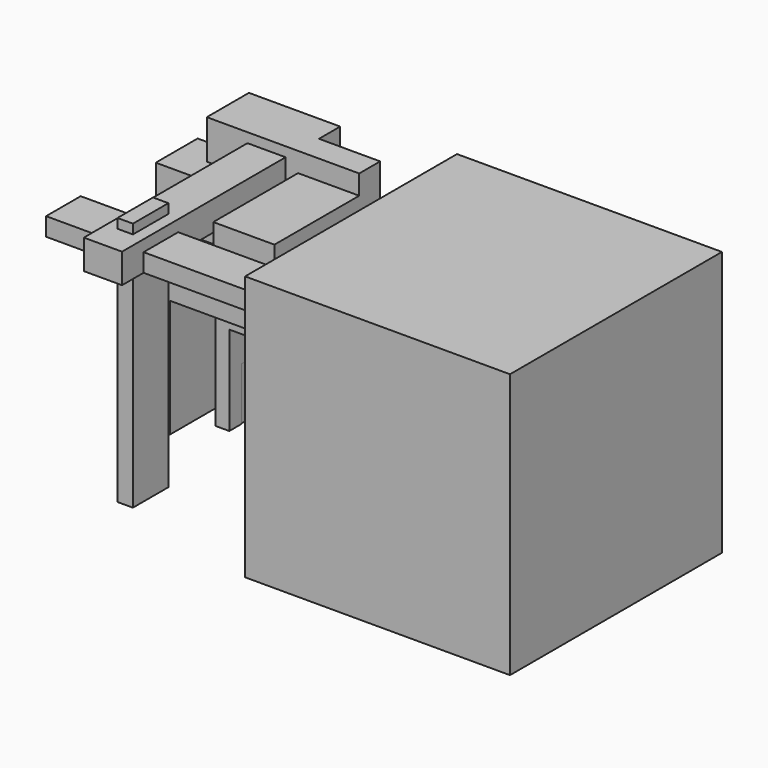
from build123d import *

# Parameters (mm, degrees)
F0_W      = 63.5
F0_H      = 63.5
F1_DEPTH  = 63.5
F2_W      = 12.7
F2_H      = 12.7
F3_DEPTH  = 12.7
F4_W      = 6.35
F4_H      = 6.35
F5_DEPTH  = 12.7
F6_W      = 12.7
F6_H      = 12.7
F7_DEPTH  = 12.7
F8_W      = 6.3622790834
F8_H      = 5.0781101454
F9_DEPTH  = 12.7
F11_DEPTH = 12.7
F12_W     = 6.1163902283
F12_H     = 21.417343989
F13_DEPTH = 6.35
F14_W     = 2.5899494067
F14_H     = 12.7
F15_DEPTH = 6.35
F16_W     = 14.4312972566
F16_H     = 12.5468349248
F17_DEPTH = 12.7
F18_W     = 36.5332050999
F18_H     = 12.6234174624
F19_DEPTH = 9.398
F20_W     = 14.6587782358
F20_H     = 4.699
F21_DEPTH = 25.4
F22_W     = 14.6587782358
F22_H     = 38.0234174624
F23_DEPTH = 6.35
F24_W     = 14.6587782358
F24_H     = 15.748
F25_DEPTH = 6.35
F26_W     = 6.5230224282
F26_H     = 14.0668489039
F27_DEPTH = 44.45
F28_W     = 14.0668489039
F28_H     = 5.2612107247
F29_DEPTH = 35.56
F30_W     = 3.1590871513
F30_H     = 14.0668489039
F31_DEPTH = 28.194
F32_W     = 9.145732969
F32_H     = 7.0805729747
F33_DEPTH = 49.022
F34_W     = 10.367654264
F34_H     = 4.3525428891
F35_DEPTH = 28.448
F36_DEPTH = 23.368
F37_W     = 3.690186888
F37_H     = 10.6312707067
F38_DEPTH = 2.286
F39_DEPTH = 57.658
F40_W     = 5.0781101454
F40_H     = 1.1522667482
F41_DEPTH = 6.35


with BuildPart() as f1:
    # F0 (on Front) → F1 (new body)
    with BuildSketch(Plane.XZ):
        with Locations((31.75, 31.75)):
            Rectangle(F0_W, F0_H)
    extrude(amount=F1_DEPTH)


with BuildPart() as f3:
    # F2 (on Front) → F3 (new body)
    with BuildSketch(Plane.XZ):
        with Locations((-42.6612650613, 6.35)):
            Rectangle(F2_W, F2_H)
    extrude(amount=F3_DEPTH)

    # F4 (on face) → F5 (join)
    with BuildSketch(Plane.XY.offset(12.7)):
        with Locations((-39.4862650613, -9.525)):
            Rectangle(F4_W, F4_H)
        Polygon((-29.9612650613, -6.35), (-36.3112650613, -6.35), (-36.3112650613, -12.7), (-42.6612650613, -12.7), (-42.6612650613, -19.05), (-29.9612650613, -19.05), align=None)
    extrude(amount=F5_DEPTH)

    # F6 (on face) → F7 (join)
    with BuildSketch(Plane.XY.offset(25.4)):
        with Locations((-42.6612650613, -6.35)):
            Rectangle(F6_W, F6_H)
    extrude(amount=F7_DEPTH)

    # F8 (on face) → F9 (join)
    with BuildSketch(Plane.XY.offset(12.7)):
        with Locations((-49.0174046029, -5.9054897865)):
            Rectangle(F8_W, F8_H)
    extrude(amount=F9_DEPTH)

    # F10 (on face) → F11 (join)
    with BuildSketch(Plane(origin=(0, 0, 12.7), x_dir=(1, 0, 0), z_dir=(0, 0, -1))):
        Polygon((-42.6612650613, 12.7), (-39.4862650613, 12.7), (-39.4862650613, 15.3430420905), (-33.1362650613, 15.3430420905), (-33.1362650613, 6.35), (-29.9612650613, 6.35), (-29.9612650613, 19.05), (-42.6612650613, 19.05), align=None)
    extrude(amount=F11_DEPTH)

    # F12 (on face) → F13 (cut)
    with BuildSketch(Plane.XZ.offset(19.05)):
        with Locations((-36.2820141017, 10.7086719945)):
            Rectangle(F12_W, F12_H)
    extrude(amount=-F13_DEPTH, mode=Mode.SUBTRACT)

    # F14 (on face) → F15 (cut)
    with BuildSketch(Plane(origin=(-33.1362650613, 0, 0), x_dir=(0, -1, 0), z_dir=(-1, 0, 0))):
        with Locations((14.0480673872, 6.35)):
            Rectangle(F14_W, F14_H)
    extrude(amount=-F15_DEPTH, mode=Mode.SUBTRACT)

    # F16 (on face) → F17 (join)
    with BuildSketch(Plane.XY.offset(38.1)):
        with Locations((-49.8769136895, -12.6234174624)):
            Rectangle(F16_W, F16_H)
    extrude(amount=F17_DEPTH)

    # F18 (on face) → F19 (join)
    with BuildSketch(Plane.XY.offset(50.8)):
        with Locations((-31.6103111396, -6.3117087312)):
            Rectangle(F18_W, F18_H)
    extrude(amount=F19_DEPTH)

    # F20 (on face) → F21 (join)
    with BuildSketch(Plane.XZ.offset(12.6234174624)):
        with Locations((-20.6730977076, 53.1495)):
            Rectangle(F20_W, F20_H)
    extrude(amount=F21_DEPTH)

    # F22 (on face) → F23 (join)
    with BuildSketch(Plane(origin=(0, 0, 50.8), x_dir=(1, 0, 0), z_dir=(0, 0, -1))):
        with Locations((-20.6730977076, 19.0117087312)):
            Rectangle(F22_W, F22_H)
    extrude(amount=F23_DEPTH)

    # F24 (on face) → F25 (cut)
    with BuildSketch(Plane(origin=(0, 0, 0), x_dir=(-1, 0, 0), z_dir=(0, 1, 0))):
        with Locations((20.6730977076, 52.324)):
            Rectangle(F24_W, F24_H)
    extrude(amount=-F25_DEPTH, mode=Mode.SUBTRACT)

    # F26 (on face) → F27 (join)
    with BuildSketch(Plane(origin=(0, 0, 44.45), x_dir=(1, 0, 0), z_dir=(0, 0, -1))):
        with Locations((-19.9186382815, 20.6244029105)):
            Rectangle(F26_W, F26_H)
    extrude(amount=F27_DEPTH)

    # F28 (on face) → F29 (join)
    with BuildSketch(Plane(origin=(-23.1801494956, 0, 0), x_dir=(0, -1, 0), z_dir=(-1, 0, 0))):
        with Locations((20.6244029105, 31.2403859571)):
            Rectangle(F28_W, F28_H)
    extrude(amount=F29_DEPTH)

    # F30 (on face) → F31 (join)
    with BuildSketch(Plane(origin=(0, 0, 28.6097805947), x_dir=(1, 0, 0), z_dir=(0, 0, -1))):
        with Locations((-48.2048373669, 20.6244029105)):
            Rectangle(F30_W, F30_H)
    extrude(amount=F31_DEPTH)

    # F32 (on face) → F33 (join)
    with BuildSketch(Plane.XZ.offset(12.6234174624)):
        with Locations((-35.5574879795, 54.3402864873)):
            Rectangle(F32_W, F32_H)
    extrude(amount=F33_DEPTH)

    # F34 (on face) → F35 (join)
    with BuildSketch(Plane.YZ.offset(-30.984621495)):
        with Locations((-49.9979630113, 52.9762714446)):
            Rectangle(F34_W, F34_H)
    extrude(amount=F35_DEPTH)

    # F34 (on face) → F36 (join)
    with BuildSketch(Plane.YZ.offset(-30.984621495)):
        with Locations((-49.9979630113, 52.9762714446)):
            Rectangle(F34_W, F34_H)
    extrude(amount=-F36_DEPTH)

    # F37 (on face) → F38 (join)
    with BuildSketch(Plane.XY.offset(57.8805729747)):
        with Locations((-35.597005859, -49.603946507)):
            Rectangle(F37_W, F37_H)
    extrude(amount=F38_DEPTH)

    # F37 (on face) → F39 (join)
    with BuildSketch(Plane.XY.offset(57.8805729747)):
        with Locations((-35.597005859, -49.603946507)):
            Rectangle(F37_W, F37_H)
    extrude(amount=-F39_DEPTH)

    # F40 (on face) → F41 (join)
    with BuildSketch(Plane(origin=(-49.0112650613, 0, 0), x_dir=(0, -1, 0), z_dir=(-1, 0, 0))):
        Polygon((1.809271751, 35.9843969345), (1.809271751, 27.5411326438), (3.3664347138, 27.5411326438), (3.3664347138, 31.1024514958), (3.3664347138, 32.2547182441), (3.3664347138, 34.6637703478), (8.4445448592, 34.6637703478), (8.4445448592, 32.2547182441), (8.4445448592, 31.1024514958), (8.4445448592, 27.5411326438), (9.6494471654, 27.5411326438), (9.6494471654, 35.9843969345), align=None)
        with Locations((5.9054897865, 31.67858487)):
            Rectangle(F40_W, F40_H)
        Polygon((9.6494471654, 9.327202104), (9.6494471654, 10.3240506724), (1.809271751, 10.3240506724), (1.809271751, 1.5185547527), (9.6494471654, 1.5185547527), (9.6494471654, 3.7614635658), (10.3999143466, 3.7614635658), (10.3999143466, 5.2567371167), (7.2432272136, 5.2567371167), (7.2432272136, 3.5953223705), (8.3231469616, 3.5953223705), (8.3231469616, 2.6815442834), (3.2558327075, 2.6815442834), (3.2558327075, 9.327202104), align=None)
    extrude(amount=F41_DEPTH)


solid = Compound([f1.part, f3.part])
